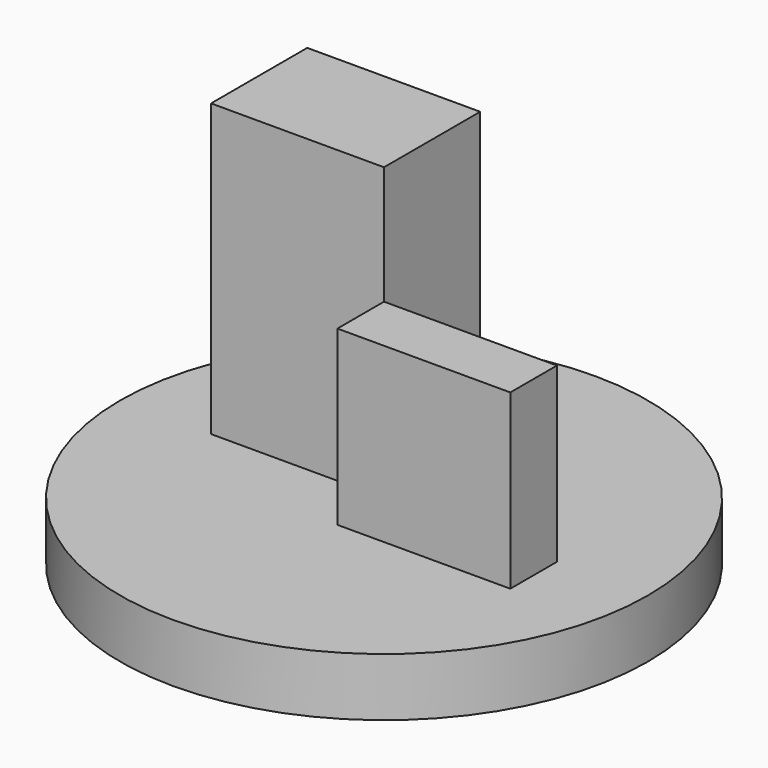
from build123d import *

# Parameters (mm, degrees)
F0_W     = 75.417697
F0_H     = 75.381391
F1_DEPTH = 25.4
F2_W     = 75.442411
F2_H     = 52.446492
F3_DEPTH = 127
F4_R     = 115.151898
F5_DEPTH = 25.4


with BuildPart() as f1:
    # F0 (on Front) → F1 (new body)
    with BuildSketch(Plane.XZ):
        with Locations((37.708848, 37.690695)):
            Rectangle(F0_W, F0_H)
    extrude(amount=F1_DEPTH)


with BuildPart() as f3:
    # F2 (on Top) → F3 (new body)
    with BuildSketch(Plane.XY):
        with Locations((-37.721205, 26.223246)):
            Rectangle(F2_W, F2_H)
    extrude(amount=F3_DEPTH)


with BuildPart() as f5:
    # F4 (on Top) → F5 (new body)
    with BuildSketch(Plane.XY):
        Circle(F4_R)
    extrude(amount=-F5_DEPTH)


solid = Compound([f1.part, f3.part, f5.part])
